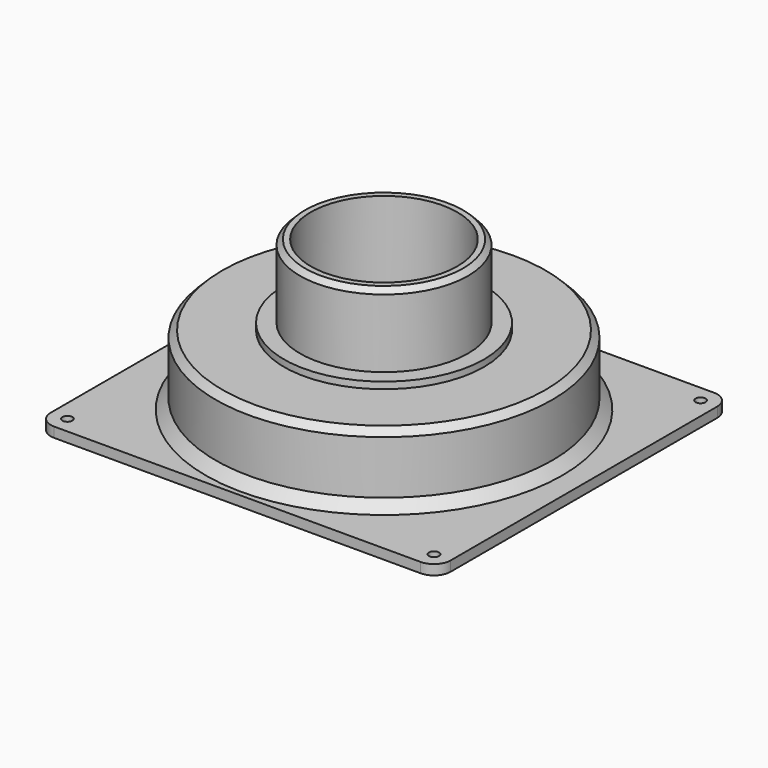
from build123d import *

# Parameters (mm, degrees)
SKETCH_W        = 120
SKETCH_H        = 110
SKETCH_R        = 1.5
SKETCH_R_2      = 47.5
PAD_DEPTH       = 3
SKETCH001_R     = 50.5
SKETCH001_R_2   = 47.5
PAD001_DEPTH    = 17
SKETCH008_R     = 50.5
SKETCH008_R_2   = 22
PAD005_DEPTH    = 4
SKETCH004_R     = 30
SKETCH004_R_2   = 25.2
PAD004_DEPTH    = 2
SKETCH009_R     = 25.2
SKETCH009_R_2   = 22
PAD006_DEPTH    = 24
CHAMFER_SIZE    = 2
CHAMFER001_SIZE = 1.5
FILLET_R        = 5
FILLET001_R     = 5
FILLET002_R     = 5


with BuildPart() as part:
    # Sketch → Pad (new body)
    with BuildSketch(Plane.XY):
        Rectangle(SKETCH_W, SKETCH_H)
        with Locations((-55, 50)):
            Circle(SKETCH_R, mode=Mode.SUBTRACT)
        with Locations((-55, -50)):
            Circle(SKETCH_R, mode=Mode.SUBTRACT)
        with Locations((55, 50)):
            Circle(SKETCH_R, mode=Mode.SUBTRACT)
        with Locations((55, -50)):
            Circle(SKETCH_R, mode=Mode.SUBTRACT)
        Circle(SKETCH_R_2, mode=Mode.SUBTRACT)
    extrude(amount=PAD_DEPTH)

    # Sketch001 (on Face11 of Pad) → Pad001 (join)
    with BuildSketch(Plane.XY.offset(3)):
        Circle(SKETCH001_R)
        Circle(SKETCH001_R_2, mode=Mode.SUBTRACT)
    extrude(amount=PAD001_DEPTH)

    # Sketch008 (on Face14 of Pad001) → Pad005 (join)
    with BuildSketch(Plane.XY.offset(20)):
        Circle(SKETCH008_R)
        Circle(SKETCH008_R_2, mode=Mode.SUBTRACT)
    extrude(amount=PAD005_DEPTH)

    # Sketch004 → Pad004 (join)
    with BuildSketch(Plane.XY.offset(24)):
        Circle(SKETCH004_R)
        Circle(SKETCH004_R_2, mode=Mode.SUBTRACT)
    extrude(amount=PAD004_DEPTH)

    # Sketch009 (on Face16 of Pad004) → Pad006 (join)
    with BuildSketch(Plane.XY.offset(24)):
        Circle(SKETCH009_R)
        Circle(SKETCH009_R_2, mode=Mode.SUBTRACT)
    extrude(amount=PAD006_DEPTH)

    # Sketch005 → Revolution (revolve)
    with BuildSketch(Plane.XZ):
        Polygon((47.5, 20), (47.5, 17), (44.5, 20), align=None)
    revolve(axis=Axis((0, 0, 0), (0, 0, 1)))

    # Sketch006 → Revolution001 (revolve)
    with BuildSketch(Plane.XZ):
        Polygon((50.5, 6), (50.5, 3), (53.5, 3), align=None)
    revolve(axis=Axis((0, 0, 0), (0, 0, 1)))

    # Chamfer
    chamfer_edges = [part.edges().sort_by_distance(p)[0] for p in [
        (-50.5, 0, 24),
    ]]
    chamfer(chamfer_edges, length=CHAMFER_SIZE)

    # Chamfer001
    chamfer001_edges = [part.edges().sort_by_distance(p)[0] for p in [
        (-25.2, 0, 48),
    ]]
    chamfer(chamfer001_edges, length=CHAMFER001_SIZE)

    # Fillet
    fillet_edges = [part.edges().sort_by_distance(p)[0] for p in [
        (60, 55, 1.5),
        (60, -55, 1.5),
    ]]
    fillet(fillet_edges, radius=FILLET_R)

    # Fillet001
    fillet001_edges = [part.edges().sort_by_distance(p)[0] for p in [
        (-60, -55, 1.5),
    ]]
    fillet(fillet001_edges, radius=FILLET001_R)

    # Fillet002
    fillet002_edges = [part.edges().sort_by_distance(p)[0] for p in [
        (-60, 55, 1.5),
    ]]
    fillet(fillet002_edges, radius=FILLET002_R)


solid = part.part
